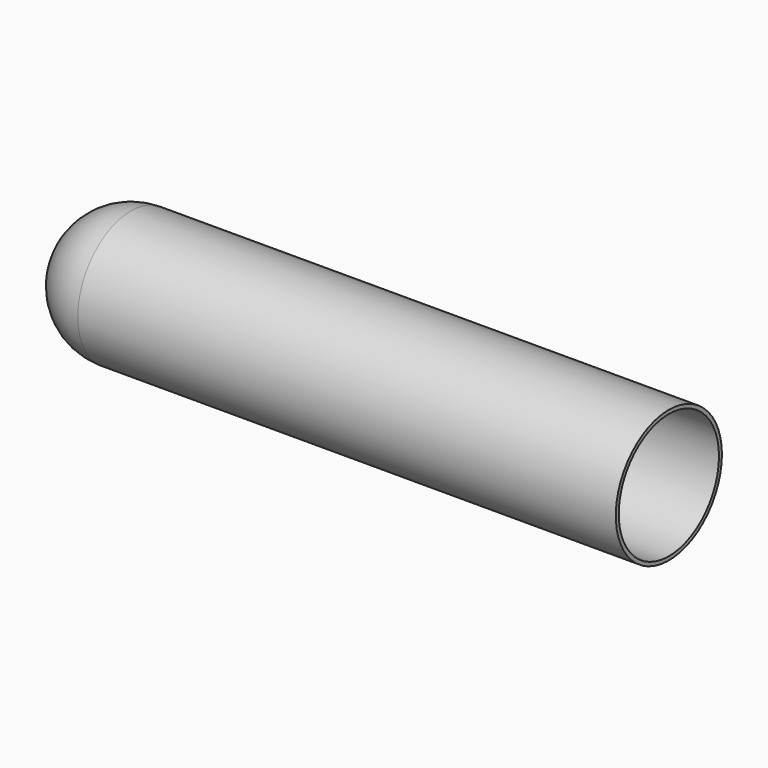
from build123d import *

# Parameters (mm, degrees)
F0_R     = 9
F1_DEPTH = 41
F2_R     = 9
F3_T     = -0.5


with BuildPart() as f1:
    # F0 (on Right) → F1 (new body, symmetric)
    with BuildSketch(Plane.YZ):
        Circle(F0_R)
    extrude(amount=F1_DEPTH, both=True)

    # F2
    f2_edges = [f1.edges().sort_by_distance(p)[0] for p in [
        (-41, -9, 0),
    ]]
    fillet(f2_edges, radius=F2_R)

    # F3
    f3_openings = [f1.faces().sort_by_distance(p)[0] for p in [
        (41, 0, 0),
    ]]
    offset(amount=F3_T, openings=f3_openings)


solid = f1.part
